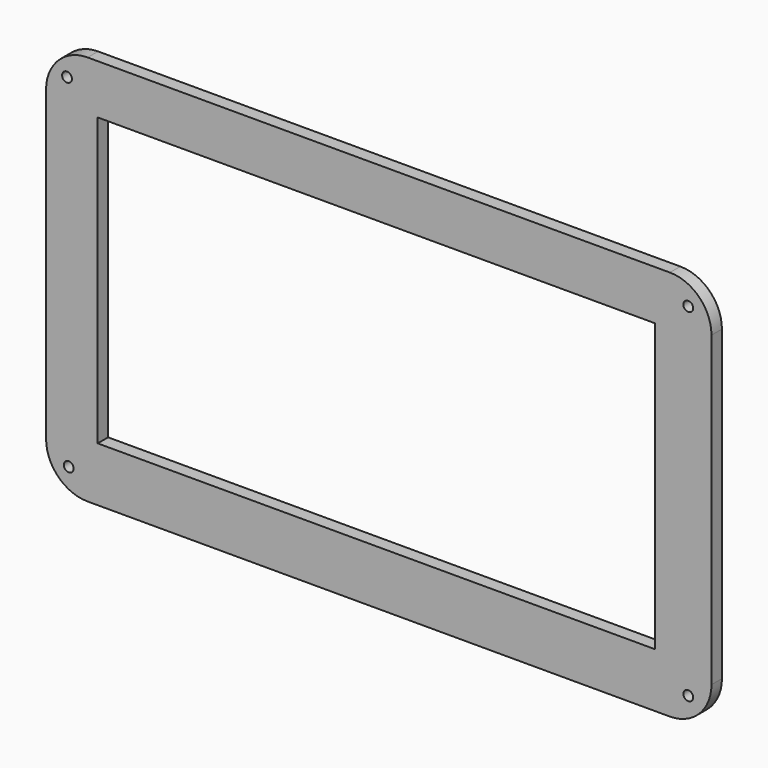
from build123d import *

# Parameters (mm, degrees)
F0_W     = 170.18
F0_H     = 87.63
F1_DEPTH = 3.9878
F3_D     = 3


with BuildPart() as f1:
    # F0 (on Front) → F1 (new body)
    with BuildSketch(Plane.XZ):
        with BuildLine():
            Line((90.146613, 65.525748), (-87.653387, 65.525748))
            ThreePointArc((-87.653387, 65.525748), (-96.633644, 61.806004), (-100.353387, 52.825748))
            Line((-100.353387, 52.825748), (-100.353387, -41.154252))
            ThreePointArc((-100.353387, -41.154252), (-96.633644, -50.134508), (-87.653387, -53.854252))
            Line((-87.653387, -53.854252), (90.146613, -53.854252))
            ThreePointArc((90.146613, -53.854252), (99.126869, -50.134508), (102.846613, -41.154252))
            Line((102.846613, -41.154252), (102.846613, 52.825748))
            ThreePointArc((102.846613, 52.825748), (99.126869, 61.806004), (90.146613, 65.525748))
        make_face()
        with Locations((0.491043, 6.588873)):
            Rectangle(F0_W, F0_H, mode=Mode.SUBTRACT)
    extrude(amount=F1_DEPTH)

    # F3 (through all)
    with Locations(Plane.XZ.offset(3.9878)):
        with Locations((-93.95866, 58.1965), (95.760956, 58.250498), (95.760956, -46.399333), (-93.443841, -46.399333)):
            Hole(F3_D / 2)


solid = f1.part
